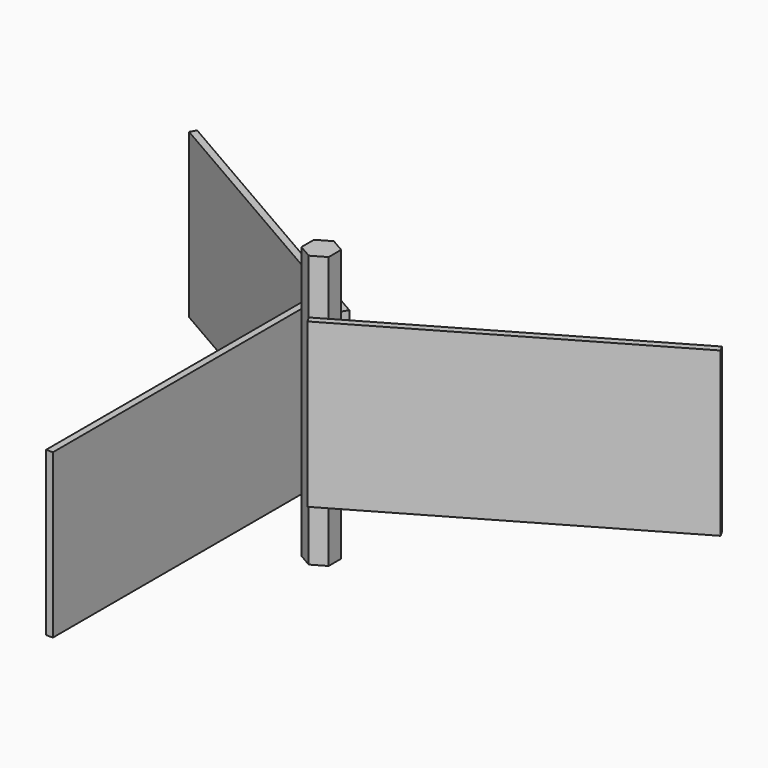
from build123d import *

# Parameters (mm, degrees)
F1_DEPTH = 63.5
F2_W     = 145.0676515813
F2_H     = 76.2
F2_W_2   = 7.3323484187
F3_DEPTH = 3.175
F5_COUNT = 3


with BuildPart() as f1:
    # F0 (on Top) → F1 (new body, symmetric)
    with BuildSketch(Plane.XY):
        Polygon((6.35, -3.6661742094), (6.35, 3.6661742094), (0, 7.3323484187), (-6.35, 3.6661742094), (-6.35, -3.6661742094), (0, -7.3323484187), align=None)
    extrude(amount=F1_DEPTH, both=True)


with BuildPart() as f3:
    # F2 (on face) → F3 (new body)
    with BuildSketch(Plane(origin=(3.175, -5.499261314, 0), x_dir=(0.8660254038, 0.5, 0), z_dir=(0.5, -0.8660254038, 0))):
        with Locations((76.2, 0)):
            Rectangle(F2_W, F2_H)
        Rectangle(F2_W_2, F2_H)
    extrude(amount=F3_DEPTH)


with BuildPart() as f5_1:
    # F5: instance of F3
    add(f3.part.rotate(Axis((0, 0, 6.9845933467), (0, 0, -1)), 1 * 360 / F5_COUNT))


with BuildPart() as f5_2:
    # F5: instance of F3
    add(f3.part.rotate(Axis((0, 0, 6.9845933467), (0, 0, -1)), 2 * 360 / F5_COUNT))


solid = Compound([f1.part, f3.part, f5_1.part, f5_2.part])
